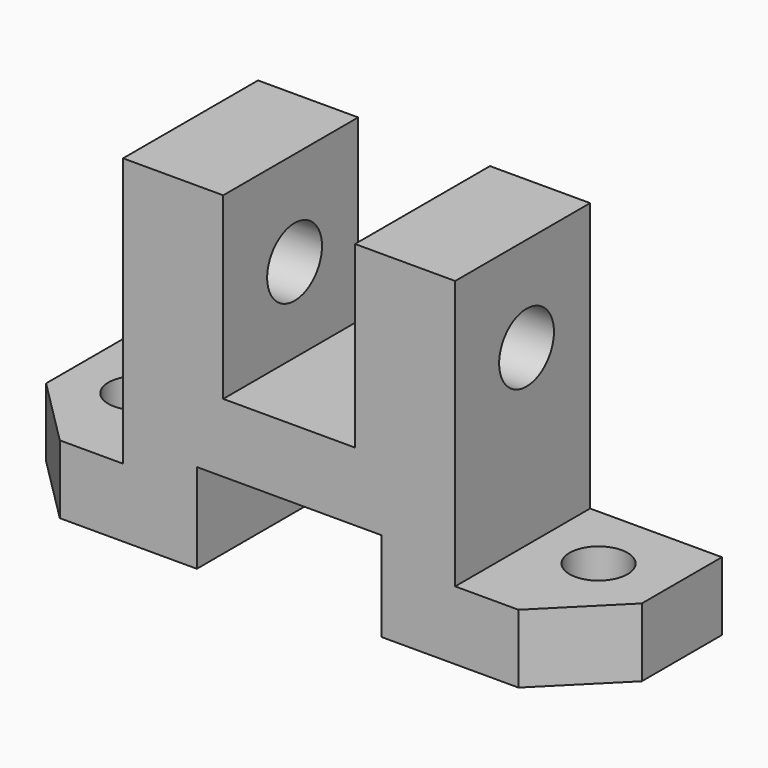
from build123d import *

# Parameters (mm, degrees)
F0_W      = 113
F0_H      = 64
F1_DEPTH  = 32
F2_W      = 32
F2_H      = 51
F3_DEPTH  = 25
F4_W      = 32
F4_H      = 51
F5_DEPTH  = 25
F7_DEPTH  = 32.001
F9_DEPTH  = 32.001
F10_SIZE  = 13
F11_SIZE  = 13
F12_R     = 5.5
F13_DEPTH = 13.001
F14_R     = 6.5
F15_DEPTH = 88.001


with BuildPart() as f1:
    # F0 (on Front) → F1 (new body)
    with BuildSketch(Plane.XZ):
        with Locations((-56.5, -32)):
            Rectangle(F0_W, F0_H)
    extrude(amount=F1_DEPTH)

    # F2 (on face) → F3 (cut)
    with BuildSketch(Plane.YZ):
        with Locations((-16, -25.5)):
            Rectangle(F2_W, F2_H)
    extrude(amount=-F3_DEPTH, mode=Mode.SUBTRACT)

    # F4 (on face) → F5 (cut)
    with BuildSketch(Plane(origin=(-113, 0, 0), x_dir=(0, -1, 0), z_dir=(-1, 0, 0))):
        with Locations((16, -25.5)):
            Rectangle(F4_W, F4_H)
    extrude(amount=-F5_DEPTH, mode=Mode.SUBTRACT)

    # F6 (on face) → F7 (cut, through all)
    with BuildSketch(Plane.XZ.offset(32)):
        Polygon((-39, -47), (-56.5, -47), (-74, -47), (-74, -64), (-56.5, -64), (-39, -64), align=None)
    extrude(amount=-F7_DEPTH, mode=Mode.SUBTRACT)

    # F8 (on face) → F9 (cut, through all)
    with BuildSketch(Plane.XZ.offset(32)):
        Polygon((-69, -34), (-56.5, -34), (-44, -34), (-44, 0), (-56.5, 0), (-69, 0), align=None)
    extrude(amount=-F9_DEPTH, mode=Mode.SUBTRACT)

    # F10
    f10_edges = [f1.edges().sort_by_distance(p)[0] for p in [
        (-113, -32, -57.5),
    ]]
    chamfer(f10_edges, length=F10_SIZE)

    # F11
    f11_edges = [f1.edges().sort_by_distance(p)[0] for p in [
        (0, -32, -57.5),
    ]]
    chamfer(f11_edges, length=F11_SIZE)

    # F12 (on face) → F13 (cut, through all)
    with BuildSketch(Plane.XY.offset(-51)):
        with Locations((-100.480012, -12.999985)):
            Circle(F12_R)
        with Locations((-13, -13)):
            Circle(F12_R)
    extrude(amount=-F13_DEPTH, mode=Mode.SUBTRACT)

    # F14 (on face) → F15 (cut, through all)
    with BuildSketch(Plane.YZ.offset(-25)):
        with Locations((-15.079716, -18)):
            Circle(F14_R)
    extrude(amount=-F15_DEPTH, mode=Mode.SUBTRACT)


solid = f1.part
